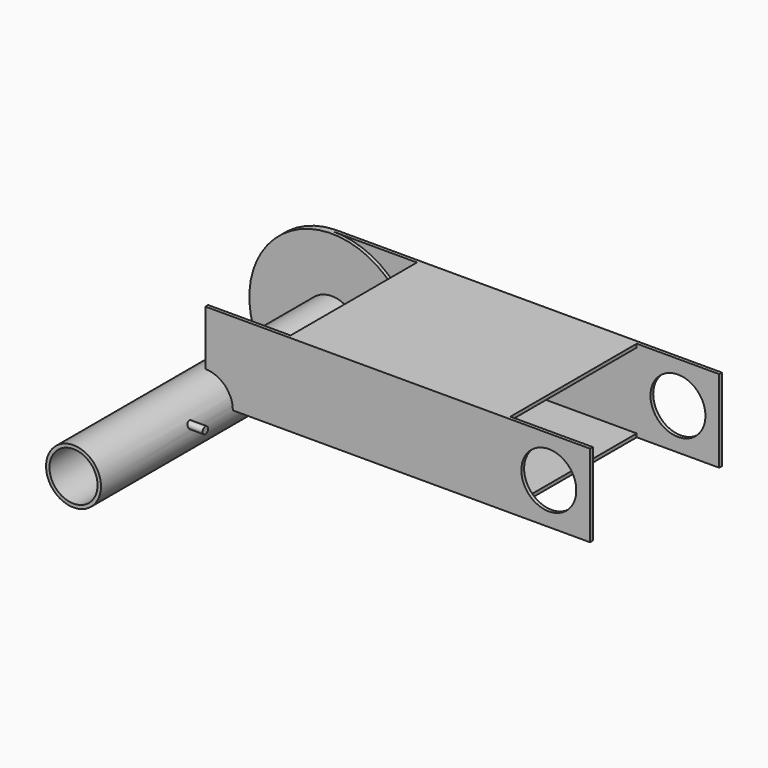
from build123d import *

# Parameters (mm, degrees)
F0_R          = 38.1
F0_R_2        = 3.175
F1_DEPTH      = 6.35
F2_R          = 25.4
F2_R_2        = 22.225
F3_DEPTH      = 304.8
F4_R          = 3.175
F5_DEPTH      = 38.1
F5_DEPTH_BACK = 22.3250001344
F6_W          = 355.6
F6_H          = 76.2
F7_DEPTH      = 152.4
F8_W          = 76.2
F8_H          = 146.05
F9_DEPTH      = 114.301
F10_W         = 146.05
F10_H         = 69.85
F11_DEPTH     = 317.501
F12_R         = 25.4
F13_DEPTH     = 304.8010001
F14_R         = 3.175
F15_DEPTH     = 152.4010001
F16_R         = 76.2
F16_R_2       = 25.4
F17_DEPTH     = 6.35
F18_R         = 3.175
F19_DEPTH     = 228.6


with BuildPart() as f1:
    # F0 (on Front) → F1 (new body)
    with BuildSketch(Plane.XZ):
        Circle(F0_R)
        Circle(F0_R_2, mode=Mode.SUBTRACT)
    extrude(amount=F1_DEPTH)


with BuildPart() as f3:
    # F2 (on Front) → F3 (new body)
    with BuildSketch(Plane.XZ):
        Circle(F2_R)
        Circle(F2_R_2, mode=Mode.SUBTRACT)
    extrude(amount=F3_DEPTH)

    # F4 (on Right) → F5 (join, two sides)
    with BuildSketch(Plane.YZ) as f5_sk:
        with Locations((-200.025, 7.2732745194)):
            Circle(F4_R)
        with Locations((-104.775, -3.0426453606)):
            Circle(F4_R)
    extrude(amount=F5_DEPTH)
    extrude(f5_sk.sketch, amount=-F5_DEPTH_BACK)


with BuildPart() as f7:
    # F6 (on Front) → F7 (new body)
    with BuildSketch(Plane.XZ):
        with Locations((177.8, 38.1)):
            Rectangle(F6_W, F6_H)
    extrude(amount=F7_DEPTH)

    # F8 (on face) → F9 (cut, through all)
    with BuildSketch(Plane.XY.offset(76.2)):
        with Locations((38.1, -76.2)):
            Rectangle(F8_W, F8_H)
        with Locations((317.5, -76.2)):
            Rectangle(F8_W, F8_H)
    extrude(amount=-F9_DEPTH, mode=Mode.SUBTRACT)

    # F10 (on face) → F11 (cut, through all)
    with BuildSketch(Plane.YZ.offset(279.4)):
        with Locations((-76.2, 38.1)):
            Rectangle(F10_W, F10_H)
    extrude(amount=-F11_DEPTH, mode=Mode.SUBTRACT)

    # F12 (on face) → F13 (cut, through all)
    with BuildSketch(Plane(origin=(0, 0, 0), x_dir=(-1, 0, 0), z_dir=(0, 1, 0))):
        with Locations((-317.5, 38.1)):
            Circle(F12_R)
    extrude(amount=-F13_DEPTH, mode=Mode.SUBTRACT)

    # F14 (on face) → F15 (cut, through all)
    with BuildSketch(Plane.XZ.offset(152.4)):
        with Locations((15.875, 15.875)):
            Circle(F14_R)
    extrude(amount=-F15_DEPTH, mode=Mode.SUBTRACT)


with BuildPart() as f17:
    # F16 (on Front) → F17 (new body)
    with BuildSketch(Plane.XZ):
        Circle(F16_R)
        Circle(F16_R_2, mode=Mode.SUBTRACT)
    extrude(amount=F17_DEPTH)


with BuildPart() as f19:
    # F18 (on Front) → F19 (new body)
    with BuildSketch(Plane.XZ):
        Circle(F18_R)
    extrude(amount=F19_DEPTH)


solid = Compound([f1.part, f3.part, f7.part, f17.part, f19.part])
